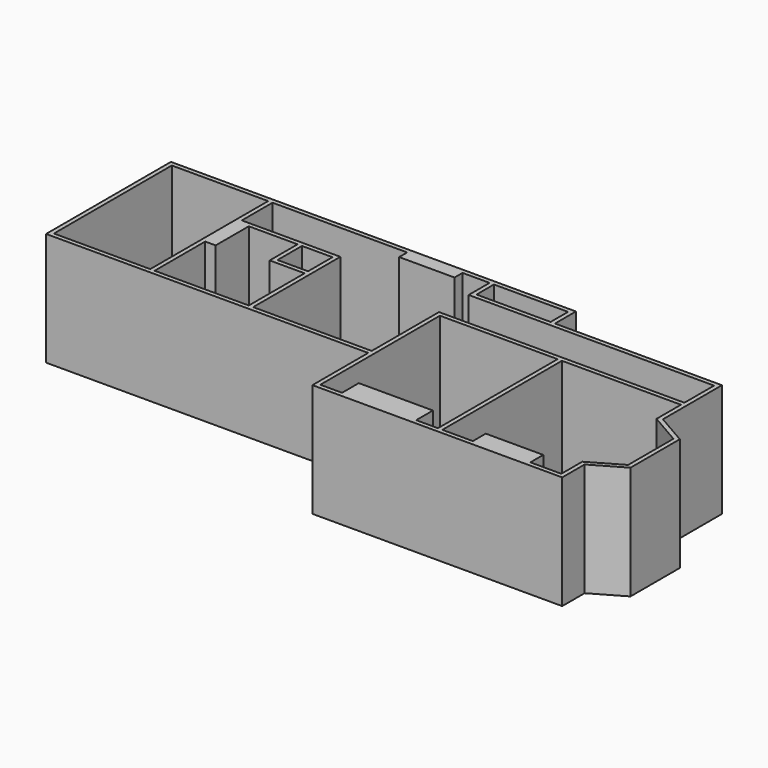
from build123d import *

# Parameters (mm, degrees)
F0_W     = 2210
F0_H     = 3380
F0_W_2   = 700
F0_H_2   = 700
F0_W_3   = 1700
F0_H_3   = 500
F1_DEPTH = 2500
F3_DEPTH = 100


with BuildPart() as f1:
    # F0 (on Top) → F1 (new body)
    with BuildSketch(Plane.XY):
        Polygon((7390, 100), (-100, 100), (-100, -3480), (7290, -3480), (7290, -5080), (10190, -5080), (13020, -5080), (13020, -4980), (13020, -4437.735027), (13740, -4022.042833), (13740, -2607.957167), (13020, -2192.264973), (13020, -1550), (13020, -500), (12720, -500), (9190, -500), (9190, 100), align=None)
        Polygon((7390, -4980), (7390, -3480), (7390, -1550), (10090, -1550), (10090, -4980), (9590, -4980), (9590, -4500), (7890, -4500), (7890, -4980), align=None, mode=Mode.SUBTRACT)
        Polygon((10190, -4980), (10190, -1550), (12720, -1550), (12920, -1550), (12920, -2250), (13640, -2665.692194), (13640, -3964.307806), (12920, -4380), (12920, -4980), (12210, -4980), (12210, -4610), (10890, -4610), (10890, -4980), align=None, mode=Mode.SUBTRACT)
        with Locations((1105, -1690)):
            Rectangle(F0_W, F0_H, mode=Mode.SUBTRACT)
        Polygon((4470, -3380), (2310, -3380), (2310, -1930), (2550, -1930), (2550, -980), (3670, -980), (3670, -1780), (4470, -1780), align=None, mode=Mode.SUBTRACT)
        with Locations((4120, -1330)):
            Rectangle(F0_W_2, F0_H_2, mode=Mode.SUBTRACT)
        Polygon((7290, 0), (7290, -600), (7390, -600), (12620, -600), (12920, -600), (12920, -1450), (12620, -1450), (10190, -1450), (7390, -1450), (7290, -1450), (7290, -1550), (7290, -3380), (4570, -3380), (4570, -880), (2310, -880), (2310, 0), (5400, 0), (5400, -230), (6670, -230), (6670, 0), align=None, mode=Mode.SUBTRACT)
        with Locations((8240, -250)):
            Rectangle(F0_W_3, F0_H_3, mode=Mode.SUBTRACT)
    extrude(amount=F1_DEPTH)

    # F2 (on face) → F3 (join)
    with BuildSketch(Plane(origin=(0, 0, 0), x_dir=(1, 0, 0), z_dir=(0, 0, -1))):
        Polygon((7290, 3480), (-100, 3480), (-100, -100), (9190, -100), (9190, 500), (13020, 500), (13020, 2192.264973), (13740, 2607.957167), (13740, 4022.042833), (13020, 4437.735027), (13020, 5080), (7290, 5080), align=None)
    extrude(amount=F3_DEPTH)


solid = f1.part
